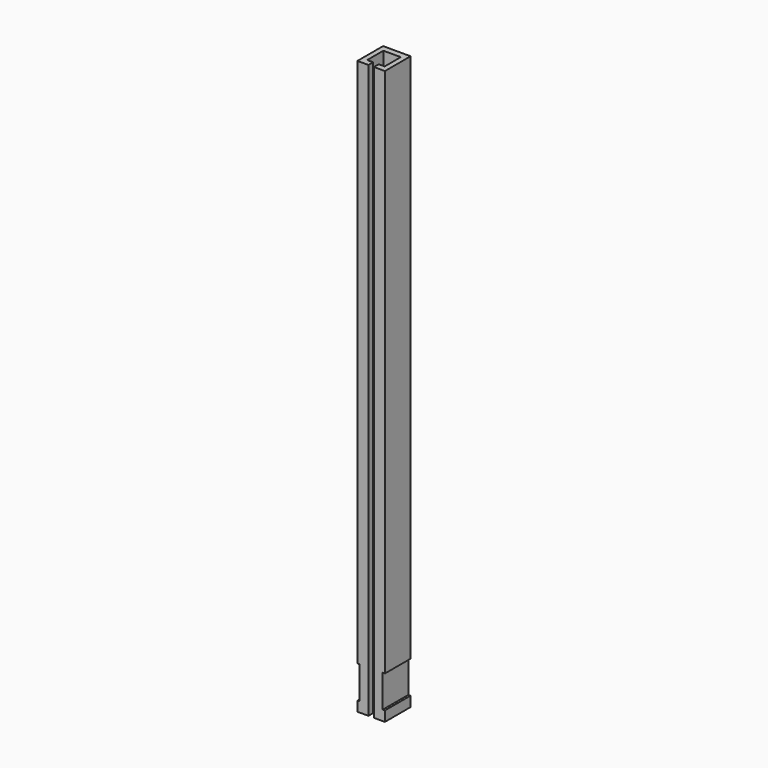
from build123d import *

# Parameters (mm, degrees)
PAD_DEPTH            = 625
SKETCH001_W          = 2.5
SKETCH001_H          = 35.5
POCKET_DEPTH         = 35
BODY_PLACEMENT_ANGLE = 90


with BuildPart() as part:
    # Sketch → Pad (new body)
    with BuildSketch(Plane.XY):
        Polygon((0, 0), (35, 0), (35, -30), (0, -30), (0, -18), (6.5, -18), (6.5, -24.5), (28.5, -24.5), (28.5, -5.5), (6.5, -5.5), (6.5, -12), (0, -12), align=None)
    extrude(amount=PAD_DEPTH)

    # Sketch001 → Pocket (cut)
    with BuildSketch(Plane(origin=(0, 0, 0), x_dir=(0, -1, 0), z_dir=(-1, 0, 0))):
        with Locations((28.850513, 28.757815)):
            Rectangle(SKETCH001_W, SKETCH001_H)
        with Locations((1.206441, 28.56098)):
            Rectangle(SKETCH001_W, SKETCH001_H)
    extrude(amount=-POCKET_DEPTH, mode=Mode.SUBTRACT)


with BuildPart() as part_1:
    # Body placement: moved
    add(part.part.rotate(Axis((0, 0, 0), (0, 0, 1)), BODY_PLACEMENT_ANGLE))


solid = part_1.part
